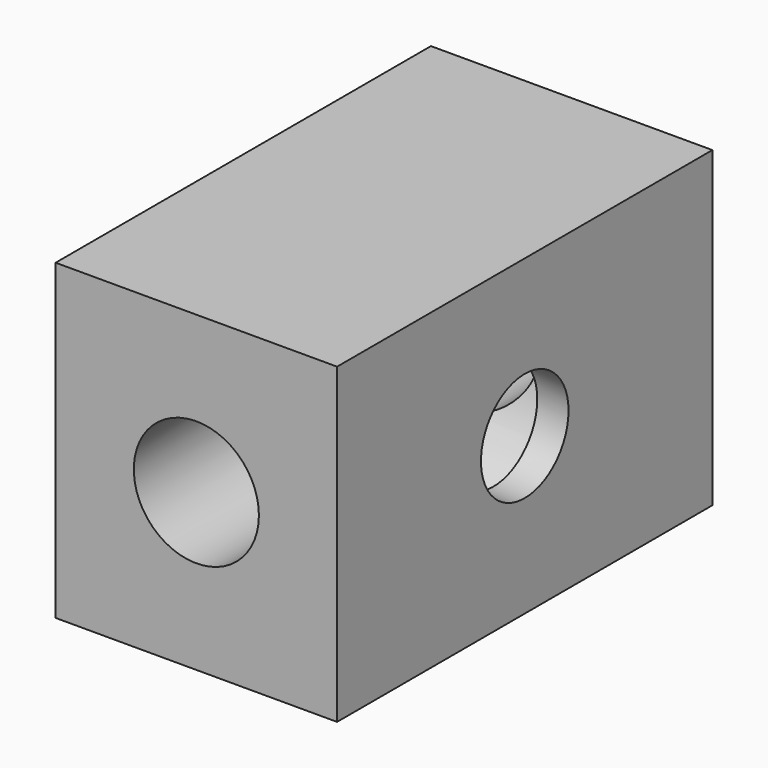
from build123d import *

# Parameters (mm, degrees)
SKETCH014_W     = 9
SKETCH014_H     = 10
SKETCH014_R     = 2
PAD009_DEPTH    = 15
SKETCH015_R     = 1.75
POCKET002_DEPTH = 9.001
SKETCH016_R     = 3.72
POCKET003_DEPTH = 8


with BuildPart() as part:
    # Sketch014 → Pad009 (new body)
    with BuildSketch(Plane.XZ):
        with Locations((4.5, 5)):
            Rectangle(SKETCH014_W, SKETCH014_H)
        with Locations((4.5, 5)):
            Circle(SKETCH014_R, mode=Mode.SUBTRACT)
    extrude(amount=PAD009_DEPTH)

    # Sketch015 → Pocket002 (cut, through all)
    with BuildSketch(Plane.YZ):
        with Locations((-7.5, 5)):
            Circle(SKETCH015_R)
    extrude(amount=POCKET002_DEPTH, mode=Mode.SUBTRACT)

    # Sketch016 → Pocket003 (cut)
    with BuildSketch(Plane.YZ):
        with Locations((-7.5, 5)):
            Circle(SKETCH016_R)
    extrude(amount=POCKET003_DEPTH, mode=Mode.SUBTRACT)


solid = part.part
